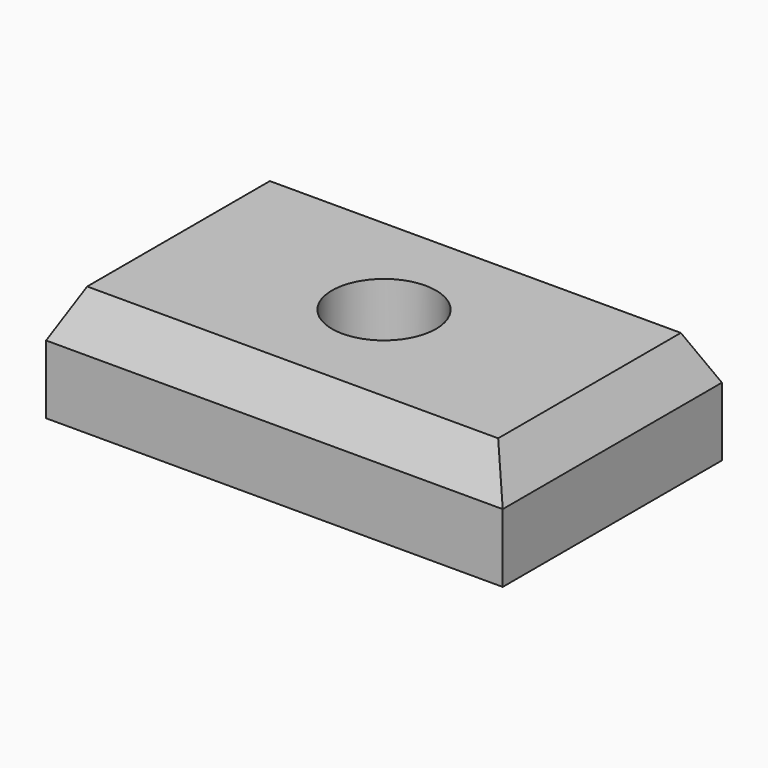
from build123d import *

# Parameters (mm, degrees)
F0_W     = 100
F0_H     = 60
F0_R     = 11.3976902361
F1_DEPTH = 25
F2_SIZE2 = 10
F2_SIZE  = 5


with BuildPart() as f1:
    # F0 (on Top) → F1 (new body)
    with BuildSketch(Plane.XY):
        Rectangle(F0_W, F0_H)
        Circle(F0_R, mode=Mode.SUBTRACT)
    extrude(amount=F1_DEPTH)

    # F2
    f2_edges = [f1.edges().sort_by_distance(p)[0] for p in [
        (-50, 0, 25),
        (0, -30, 25),
        (0, 30, 25),
        (50, 0, 25),
    ]]
    f2_side = f1.faces().sort_by_distance((0, 28.83381, 25))[0]
    chamfer(f2_edges, length=F2_SIZE, length2=F2_SIZE2, reference=f2_side)


solid = f1.part
